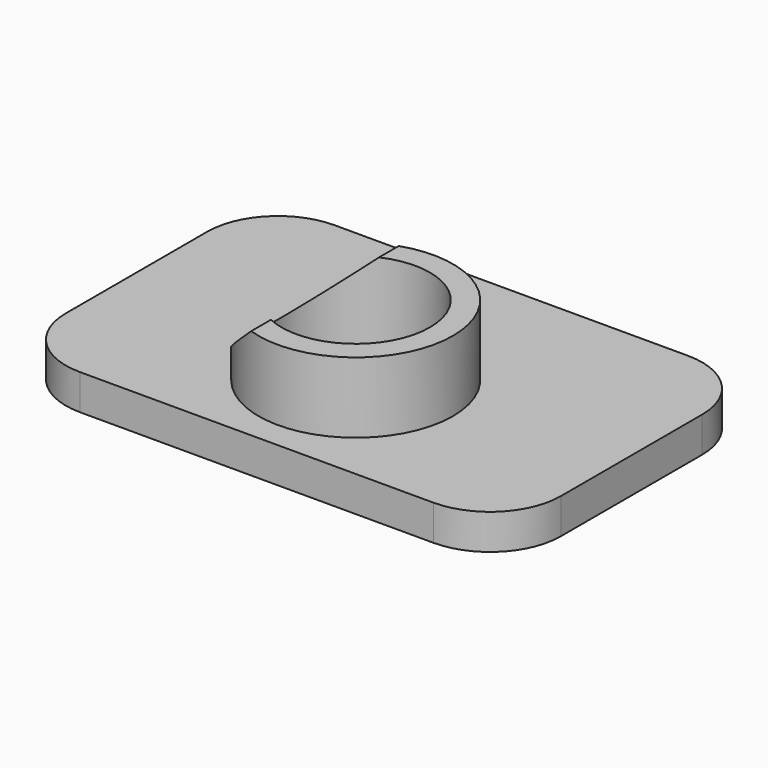
from build123d import *

# Parameters (mm, degrees)
F0_W      = 14
F0_H      = 9
F1_DEPTH  = 1
F2_R      = 2.75
F2_R_2    = 2.1
F3_DEPTH  = 2
F3_FACE_R = 2.1
F4_DEPTH  = 1.5
F5_R      = 2
F7_DEPTH  = 25


with BuildPart() as f1:
    # F0 (on Top) → F1 (new body)
    with BuildSketch(Plane.XY):
        with Locations((0.901556, 11.815395)):
            Rectangle(F0_W, F0_H)
    extrude(amount=F1_DEPTH)

    # F2 (on face) → F3 (join)
    with BuildSketch(Plane.XY.offset(1)):
        with Locations((0.901556, 10.815395)):
            Circle(F2_R)
        with Locations((0.901556, 10.815395)):
            Circle(F2_R_2, mode=Mode.SUBTRACT)
    extrude(amount=F3_DEPTH)

    # F3_face (on face) → F4 (cut)
    with BuildSketch(Plane(origin=(0.901556, 10.815395, 1), x_dir=(1, 0, 0), z_dir=(0, 0, 1))):
        Circle(F3_FACE_R)
    extrude(amount=-F4_DEPTH, mode=Mode.SUBTRACT)

    # F5
    f5_edges = [f1.edges().sort_by_distance(p)[0] for p in [
        (-6.098444, 7.315395, 0.5),
        (-6.098444, 16.315395, 0.5),
        (7.901556, 7.315395, 0.5),
        (7.901556, 16.315395, 0.5),
    ]]
    fillet(f5_edges, radius=F5_R)

    # F6 (on face) → F7 (cut)
    with BuildSketch(Plane.XZ.offset(-7.315395)):
        Polygon((0.521946, 3.445374), (-2.167966, 3.445374), (-2.167966, 1), align=None)
    extrude(amount=-F7_DEPTH, mode=Mode.SUBTRACT)


solid = f1.part
